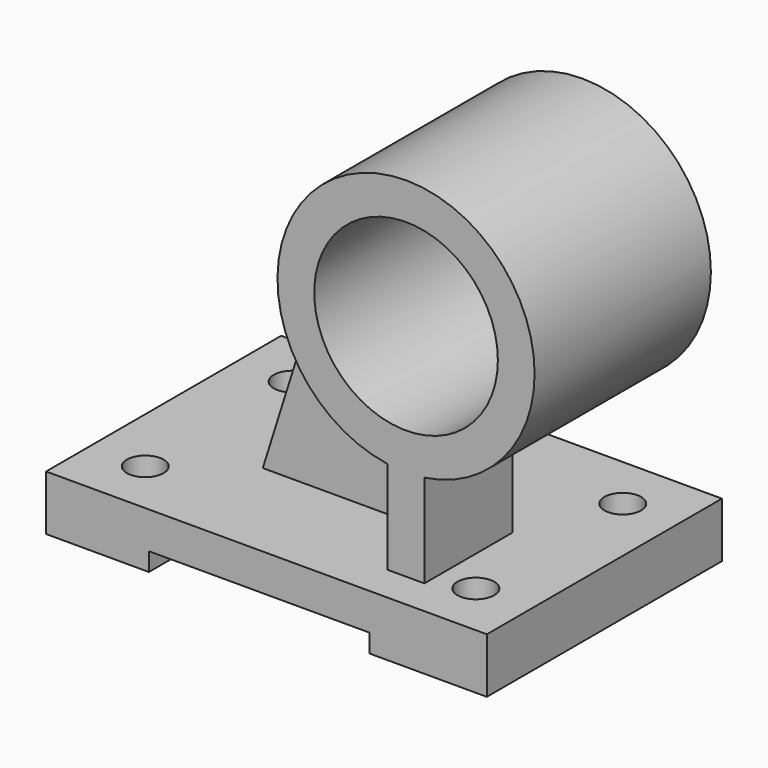
from build123d import *

# Parameters (mm, degrees)
F0_W      = 120
F0_H      = 15
F1_DEPTH  = 40
F2_W      = 60
F2_H      = 5
F3_DEPTH  = 80.001
F4_R      = 5
F5_DEPTH  = 15.001
F6_R      = 35
F6_R_2    = 25
F7_DEPTH  = 30
F9_DEPTH  = 30
F11_DEPTH = 10


with BuildPart() as f1:
    # F0 (on Front) → F1 (new body, symmetric)
    with BuildSketch(Plane.XZ):
        Rectangle(F0_W, F0_H)
    extrude(amount=F1_DEPTH, both=True)

    # F2 (on face) → F3 (cut, through all)
    with BuildSketch(Plane.XZ.offset(40)):
        with Locations((-2.0098921657, -5)):
            Rectangle(F2_W, F2_H)
    extrude(amount=-F3_DEPTH, mode=Mode.SUBTRACT)

    # F4 (on face) → F5 (cut, through all)
    with BuildSketch(Plane.XY.offset(7.5)):
        with Locations((-45, 25)):
            Circle(F4_R)
        with Locations((-45, -25)):
            Circle(F4_R)
        with Locations((45, -25)):
            Circle(F4_R)
        with Locations((45, 25)):
            Circle(F4_R)
    extrude(amount=-F5_DEPTH, mode=Mode.SUBTRACT)



with BuildPart() as f7:
    # F6 (on Front) → F7 (new body, symmetric)
    with BuildSketch(Plane.XZ):
        with Locations((30, 67.5)):
            Circle(F6_R)
        with Locations((30, 67.5)):
            Circle(F6_R_2, mode=Mode.SUBTRACT)
    extrude(amount=F7_DEPTH, both=True)


with BuildPart() as f1_1:
    add(f1.part)

    add(f7.part)  # F9 merges F7
    # F8 (on Front) → F9 (join)
    with BuildSketch(Plane.XZ):
        with BuildLine():
            ThreePointArc((35, 32.8589838486), (30, 32.5), (25, 32.8589838486))
            Line((25, 32.8589838486), (25, 7.5))
            Line((25, 7.5), (35, 7.5))
            Line((35, 7.5), (35, 32.8589838486))
        make_face()
    extrude(amount=F9_DEPTH)

    # F10 (on Front) → F11 (join)
    with BuildSketch(Plane.XZ):
        with BuildLine():
            ThreePointArc((25, 32.8589838486), (2.2005780667, 46.2351900979), (-4.7421322486, 71.740783751))
            Line((-4.7421322486, 71.740783751), (-25, 7.5))
            Line((-25, 7.5), (25, 7.5))
            Line((25, 7.5), (25, 32.8589838486))
        make_face()
    extrude(amount=F11_DEPTH)


solid = f1_1.part
